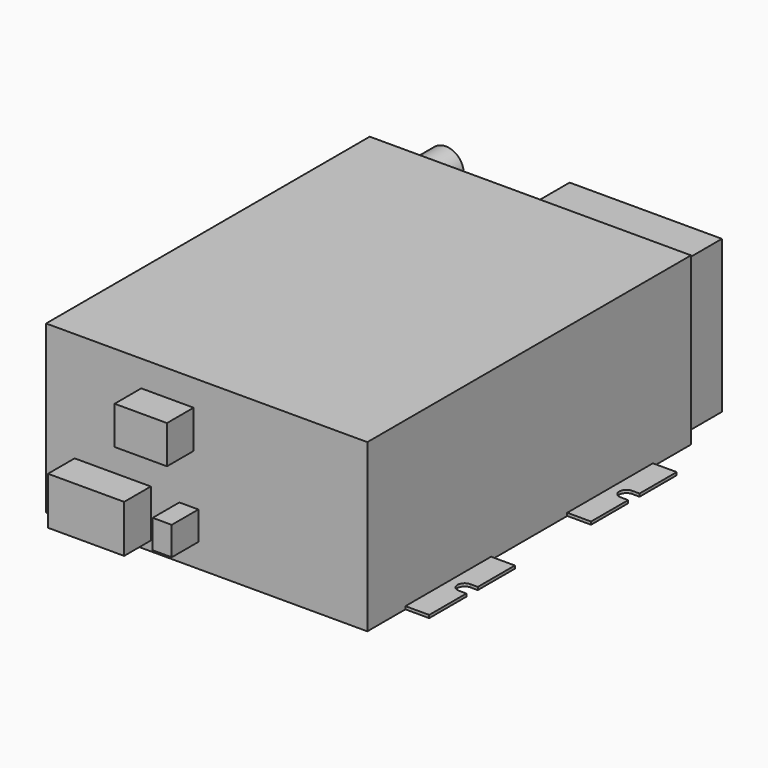
from build123d import *

# Parameters (mm, degrees)
F0_W     = 171.45
F0_H     = 88.9
F1_DEPTH = 215.9
F2_W     = 40.64
F2_H     = 25.4
F2_W_2   = 27.94
F2_H_2   = 20.32
F2_W_3   = 10.16
F2_H_3   = 15.24
F3_DEPTH = 17.78
F4_W     = 81.28
F4_H     = 81.28
F4_R     = 9.525
F5_DEPTH = 25.4
F7_DEPTH = 1.524


with BuildPart() as f1:
    # F0 (on Front) → F1 (new body)
    with BuildSketch(Plane.XZ):
        with Locations((-85.725, 44.45)):
            Rectangle(F0_W, F0_H)
    extrude(amount=F1_DEPTH)

    # F2 (on face) → F3 (join)
    with BuildSketch(Plane.XZ.offset(215.9)):
        with Locations((-135.89, 17.78)):
            Rectangle(F2_W, F2_H)
        with Locations((-106.68, 64.77)):
            Rectangle(F2_W_2, F2_H_2)
        with Locations((-95.25, 20.32)):
            Rectangle(F2_W_3, F2_H_3)
    extrude(amount=F3_DEPTH)

    # F4 (on face) → F5 (join)
    with BuildSketch(Plane(origin=(0, 0, 0), x_dir=(-1, 0, 0), z_dir=(0, 1, 0))):
        with Locations((44.45, 44.45)):
            Rectangle(F4_W, F4_H)
        with Locations((151.13, 71.12)):
            Circle(F4_R)
    extrude(amount=F5_DEPTH)

    # F6 (on face) → F7 (join)
    with BuildSketch(Plane(origin=(0, 0, 0), x_dir=(1, 0, 0), z_dir=(0, 0, -1))):
        with BuildLine():
            Line((-184.15, 25.4), (-171.45, 25.4))
            Line((-171.45, 25.4), (-171.45, 82.55))
            Line((-171.45, 82.55), (-184.15, 82.55))
            Line((-184.15, 82.55), (-184.15, 57.785))
            Line((-184.15, 57.785), (-180.1876, 57.785))
            ThreePointArc((-180.1876, 57.785), (-176.3776, 53.975), (-180.1876, 50.165))
            Line((-180.1876, 50.165), (-184.15, 50.165))
            Line((-184.15, 50.165), (-184.15, 25.4))
        make_face()
        with BuildLine():
            Line((-184.15, 133.35), (-171.45, 133.35))
            Line((-171.45, 133.35), (-171.45, 190.5))
            Line((-171.45, 190.5), (-184.15, 190.5))
            Line((-184.15, 190.5), (-184.15, 165.735))
            Line((-184.15, 165.735), (-180.1876, 165.735))
            ThreePointArc((-180.1876, 165.735), (-176.3776, 161.925), (-180.1876, 158.115))
            Line((-180.1876, 158.115), (-184.15, 158.115))
            Line((-184.15, 158.115), (-184.15, 133.35))
        make_face()
        with BuildLine():
            Line((0, 190.5), (0, 133.35))
            Line((0, 133.35), (12.7, 133.35))
            Line((12.7, 133.35), (12.7, 158.115))
            Line((12.7, 158.115), (8.7376, 158.115))
            ThreePointArc((8.7376, 158.115), (4.9276, 161.925), (8.7376, 165.735))
            Line((8.7376, 165.735), (12.7, 165.735))
            Line((12.7, 165.735), (12.7, 190.5))
            Line((12.7, 190.5), (0, 190.5))
        make_face()
        with BuildLine():
            Line((0, 82.55), (0, 25.4))
            Line((0, 25.4), (12.7, 25.4))
            Line((12.7, 25.4), (12.7, 50.165))
            Line((12.7, 50.165), (8.7376, 50.165))
            ThreePointArc((8.7376, 50.165), (4.9276, 53.975), (8.7376, 57.785))
            Line((8.7376, 57.785), (12.7, 57.785))
            Line((12.7, 57.785), (12.7, 82.55))
            Line((12.7, 82.55), (0, 82.55))
        make_face()
    extrude(amount=-F7_DEPTH)


solid = f1.part
